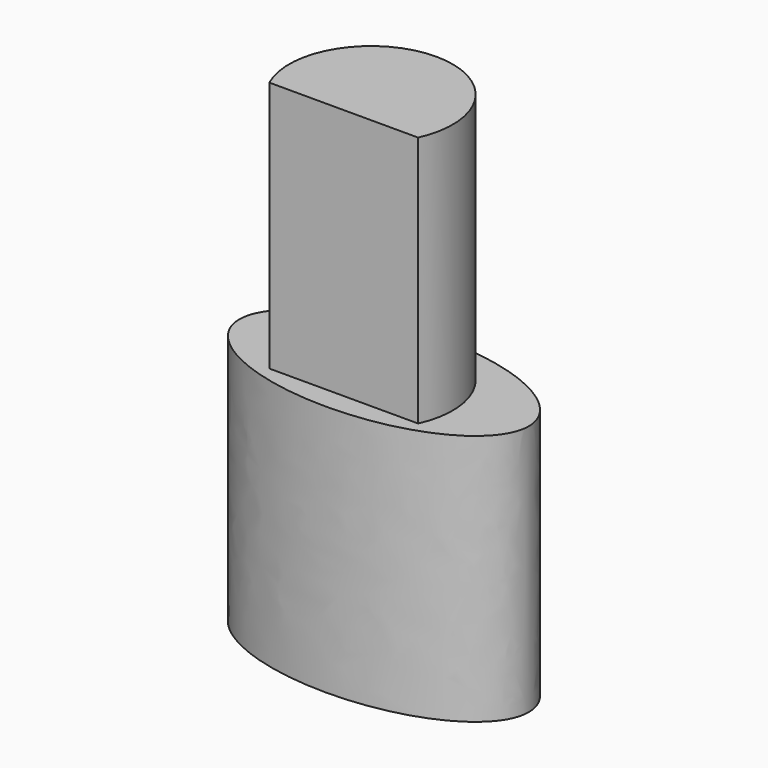
from build123d import *

# Parameters (mm, degrees)
F1_DEPTH = 10
F3_DEPTH = 10


with BuildPart() as f1:
    # F0 (on Top) → F1 (new body)
    with BuildSketch(Plane.XY):
        with BuildLine():
            add(Edge.make_bspline(
                [(5.75, 0), (5.75, 5.022947), (-2.875, 2.511474), (-11.5, 0), (-2.875, -2.511474), (5.75, -5.022947), (5.75, 0)],
                knots=[0, 0, 0, 2.094395, 2.094395, 4.18879, 4.18879, 6.283185, 6.283185, 6.283185], degree=2, weights=[1, 0.5, 1, 0.5, 1, 0.5, 1]))
        make_face()
    extrude(amount=F1_DEPTH)

    # F2 (on face) → F3 (join)
    with BuildSketch(Plane.XY.offset(10)):
        with BuildLine():
            Line((0, -0.65), (0, 0))
            Line((0, 0), (0, 2.6))
            ThreePointArc((0, 2.6), (-2.734045, 1.107128), (-2.956349, -2))
            Line((-2.956349, -2), (0, -2))
            Line((0, -2), (0, -0.65))
        make_face()
        with BuildLine():
            Line((0, 2.6), (0, 0))
            Line((0, 0), (0, -0.65))
            Line((0, -0.65), (0, -2))
            Line((0, -2), (2.956349, -2))
            ThreePointArc((2.956349, -2), (2.734045, 1.107128), (0, 2.6))
        make_face()
    extrude(amount=F3_DEPTH)


solid = f1.part
